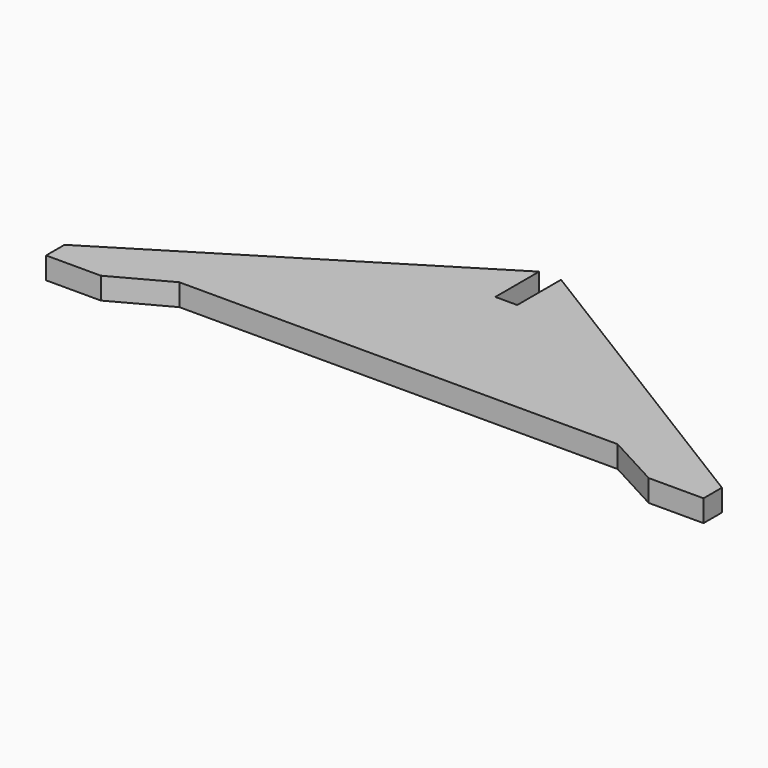
from build123d import *

# Parameters (mm, degrees)
F1_DEPTH = 2


with BuildPart() as f1:
    # F0 (on Top) → F1 (new body)
    with BuildSketch(Plane.XY):
        Polygon((-30, 0), (-25, 0), (-20, 2.7), (0, 2.7), (0, 15), (-1, 15), (-1, 20), (-30, 2.1), align=None)
        Polygon((0, 15), (0, 2.7), (20, 2.7), (25, 0), (30, 0), (30, 2.1), (1, 20), (1, 15), align=None)
    extrude(amount=F1_DEPTH)


solid = f1.part
